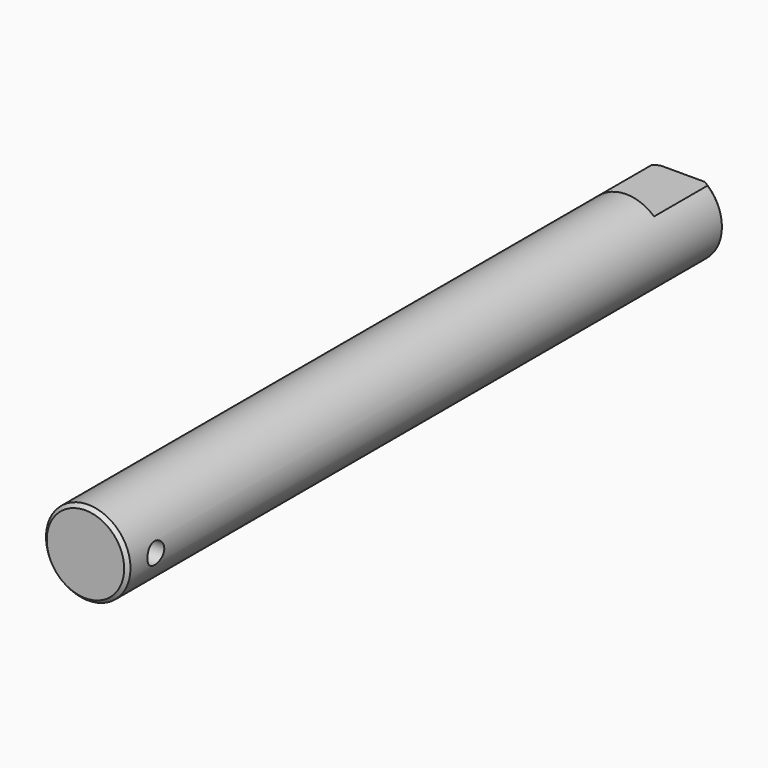
from build123d import *

# Parameters (mm, degrees)
F0_R     = 6
F1_DEPTH = 106
F2_SIZE  = 0.5
F3_W     = 20
F3_H     = 5
F4_DEPTH = 10
F5_R     = 1.5
F6_DEPTH = 12.5


with BuildPart() as f1:
    # F0 (on Front) → F1 (new body)
    with BuildSketch(Plane.XZ):
        Circle(F0_R)
    extrude(amount=F1_DEPTH)

    # F2
    f2_edges = [f1.edges().sort_by_distance(p)[0] for p in [
        (-6, -106, 0),
        (-6, 0, 0),
    ]]
    chamfer(f2_edges, length=F2_SIZE)

    # F3 (on Front) → F4 (cut)
    with BuildSketch(Plane.XZ):
        with Locations((0, 7)):
            Rectangle(F3_W, F3_H)
    extrude(amount=F4_DEPTH, mode=Mode.SUBTRACT)

    # F5 (on Right) → F6 (cut, symmetric)
    with BuildSketch(Plane.YZ):
        with Locations((-101, 0)):
            Circle(F5_R)
    extrude(amount=F6_DEPTH, both=True, mode=Mode.SUBTRACT)


solid = f1.part
